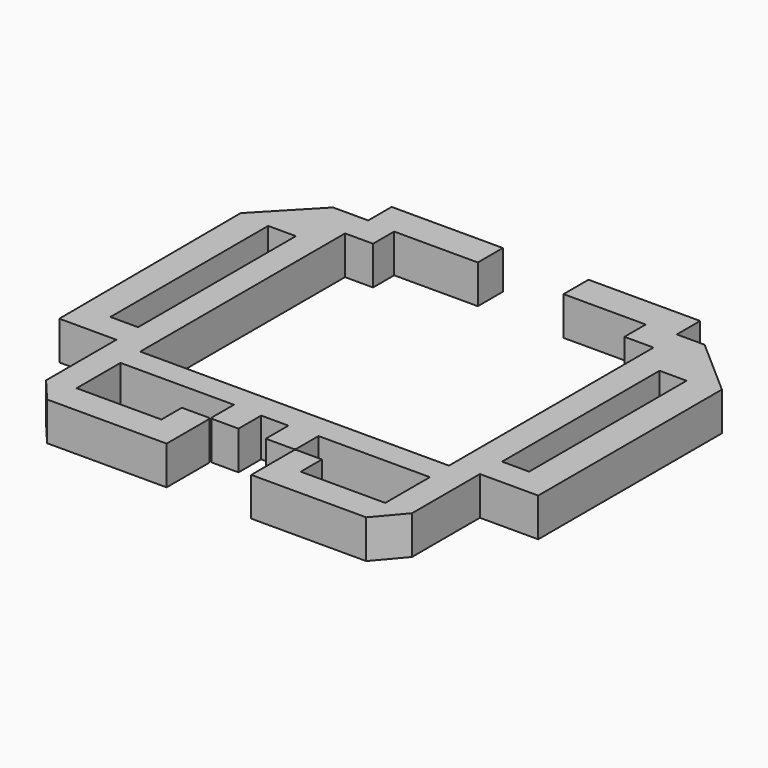
from build123d import *

# Parameters (mm, degrees)
F1_DEPTH = 5.08


with BuildPart() as f1:
    # F0 (on Top) → F1 (new body)
    with BuildSketch(Plane.XY):
        Polygon((-26.802173, 16.123889), (-33.446975, 9.196329), (-33.32198, -20.852495), (-25.797263, -20.852495), (-25.797263, -32.437459), (-23.04874, -35.707604), (-7.288572, -35.707604), (-7.288572, -28.633701), (-7.422721, -28.633701), (-7.422721, -28.472308), (-11.060405, -28.477812), (-11.060405, -31.849254), (-22.243723, -31.849254), (-22.243723, -24.612989), (-7.288572, -24.612989), (-7.288572, -28.314244), (-7.129885, -28.314244), (-7.129885, -28.472105), (-3.592881, -28.472105), (-3.592881, -24.738993), (0, -24.738993), (0, -28.472105), (3.779429, -28.472105), (3.779429, -28.376063), (3.87288, -28.376063), (3.87288, -24.612989), (18.555807, -24.612989), (18.555807, -31.965628), (7.40414, -31.965628), (7.40414, -28.472105), (3.947215, -28.472105), (3.947215, -28.560627), (3.87288, -28.560627), (3.87288, -35.707604), (19.032972, -35.707604), (22.143554, -32.043237), (22.143554, -20.852495), (29.830599, -20.852495), (29.830599, 9.431463), (22.192484, 16.123889), (18.522065, 16.123889), (18.522065, 19.973662), (3.802496, 19.973662), (3.802496, 15.856959), (14.647798, 15.856959), (14.647798, 12.343044), (18.484237, 12.343044), (18.484237, -21.378608), (-22.228232, -21.378608), (-22.228232, 12.377576), (-18.531785, 12.377576), (-18.531785, 15.856959), (-7.499151, 15.856959), (-7.499151, 19.986793), (-22.170134, 19.986793), (-22.170134, 16.123889), align=None)
        Polygon((-29.452393, -17.267458), (-29.452393, -9.904894), (-29.452393, 8.73787), (-25.797263, 8.73787), (-25.797263, -9.904894), (-25.797263, -17.267458), align=None, mode=Mode.SUBTRACT)
        Polygon((22.195717, -17.267458), (22.195717, -9.904894), (22.195717, 8.692143), (25.764888, 8.692143), (25.764888, -9.904894), (25.764197, -9.904894), (25.764197, -17.267458), align=None, mode=Mode.SUBTRACT)
    extrude(amount=F1_DEPTH)


solid = f1.part
